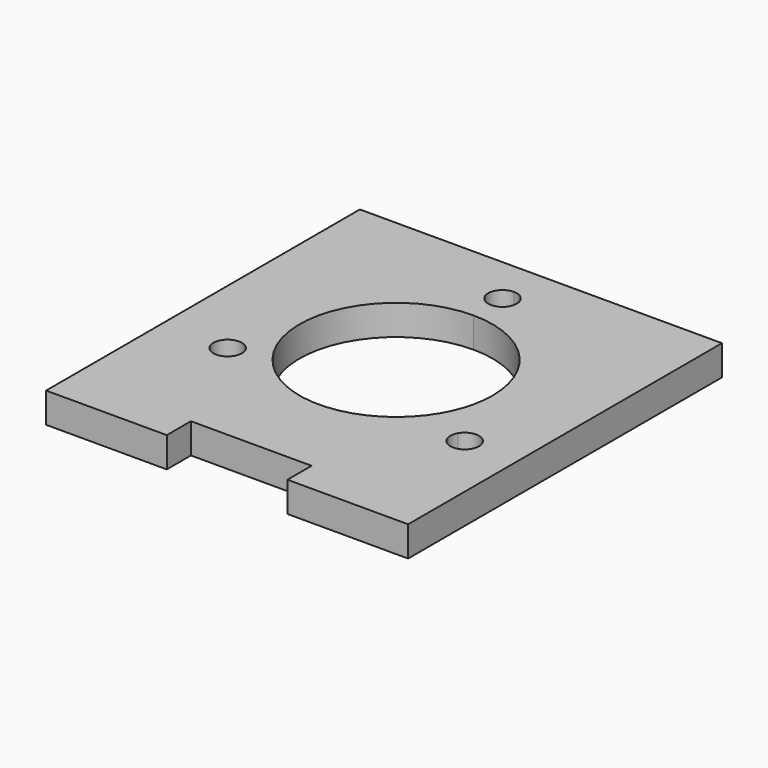
from build123d import *

# Parameters (mm, degrees)
F1_DEPTH = 3.175
F2_W     = 12.7
F2_H     = 3.175
F3_DEPTH = 3.175


with BuildPart() as f1:
    # F0 (on Top) → F1 (new body)
    with BuildSketch(Plane.XY):
        with BuildLine():
            Line((-19.05, -19.05), (19.05, -19.05))
            Line((19.05, -19.05), (19.05, -10.998523))
            Line((19.05, -10.998523), (14.722432, -8.5))
            ThreePointArc((14.722432, -8.5), (12.673394, -9.049038), (12.124356, -7))
            Line((12.124356, -7), (8.798818, -5.08))
            ThreePointArc((8.798818, -5.08), (0, -10.16), (-8.798818, -5.08))
            Line((-8.798818, -5.08), (-10.825318, -6.25))
            ThreePointArc((-10.825318, -6.25), (-10.675467, -6.611771), (-10.624356, -7))
            ThreePointArc((-10.624356, -7), (-11.736127, -8.448889), (-13.423394, -7.75))
            Line((-13.423394, -7.75), (-19.05, -10.998523))
            Line((-19.05, -10.998523), (-19.05, -19.05))
        make_face()
        with BuildLine():
            Line((14.722432, -8.5), (19.05, -10.998523))
            Line((19.05, -10.998523), (19.05, 19.05))
            Line((19.05, 19.05), (0, 19.05))
            Line((0, 19.05), (0, 15.5))
            ThreePointArc((0, 15.5), (1.06066, 15.06066), (1.5, 14))
            ThreePointArc((1.5, 14), (1.06066, 12.93934), (0, 12.5))
            Line((0, 12.5), (0, 10.16))
            ThreePointArc((0, 10.16), (7.184205, 7.184205), (10.16, 0))
            ThreePointArc((10.16, 0), (9.813806, -2.629601), (8.798818, -5.08))
            Line((8.798818, -5.08), (12.124356, -7))
            ThreePointArc((12.124356, -7), (13.811622, -6.301111), (14.923394, -7.75))
            ThreePointArc((14.923394, -7.75), (14.872282, -8.138229), (14.722432, -8.5))
        make_face()
        with BuildLine():
            Line((-19.05, 19.05), (-19.05, -10.998523))
            Line((-19.05, -10.998523), (-13.423394, -7.75))
            ThreePointArc((-13.423394, -7.75), (-12.874356, -5.700962), (-10.825318, -6.25))
            Line((-10.825318, -6.25), (-8.798818, -5.08))
            ThreePointArc((-8.798818, -5.08), (-8.798818, 5.08), (0, 10.16))
            Line((0, 10.16), (0, 12.5))
            ThreePointArc((0, 12.5), (-1.5, 14), (0, 15.5))
            Line((0, 15.5), (0, 19.05))
            Line((0, 19.05), (-19.05, 19.05))
        make_face()
    extrude(amount=F1_DEPTH)

    # F2 (on face) → F3 (join)
    with BuildSketch(Plane.XZ.offset(19.05)):
        with Locations((-12.7, 1.5875)):
            Rectangle(F2_W, F2_H)
        with Locations((12.7, 1.5875)):
            Rectangle(F2_W, F2_H)
    extrude(amount=F3_DEPTH)


solid = f1.part
